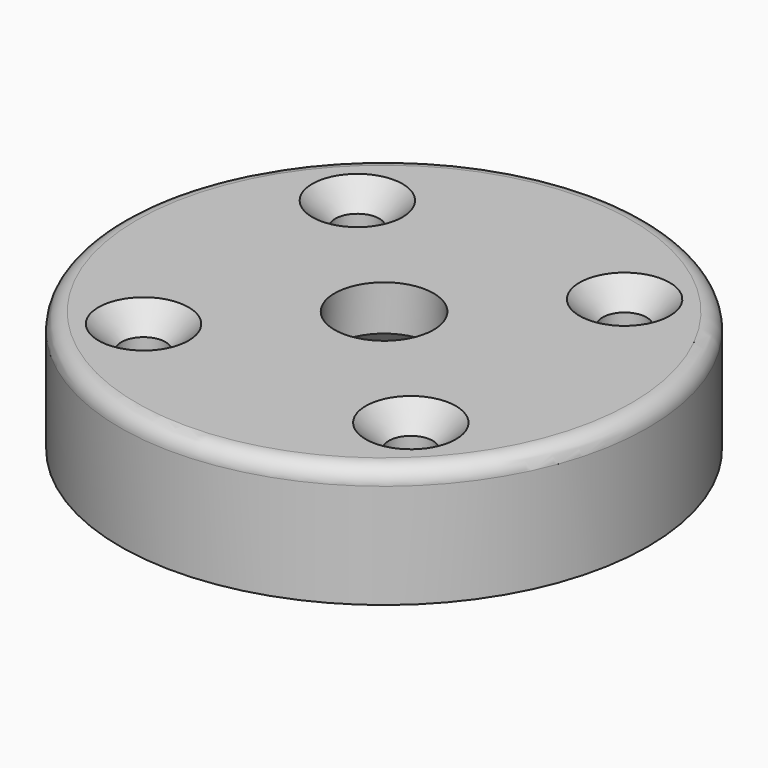
from build123d import *

# Parameters (mm, degrees)
SKETCH_R        = 24
SKETCH_R_2      = 4.5
SKETCH_R_3      = 2
PAD_DEPTH       = 11
CHAMFER_SIZE    = 2.1
FILLET_R        = 1.5
SKETCH001_R     = 8.5
POCKET_DEPTH    = 3
CHAMFER001_SIZE = 3.9


with BuildPart() as part:
    # Sketch → Pad (new body)
    with BuildSketch(Plane.XY):
        Circle(SKETCH_R)
        Circle(SKETCH_R_2, mode=Mode.SUBTRACT)
        with Locations((-12.15, 12.15)):
            Circle(SKETCH_R_3, mode=Mode.SUBTRACT)
        with Locations((12.15, 12.15)):
            Circle(SKETCH_R_3, mode=Mode.SUBTRACT)
        with Locations((12.15, -12.15)):
            Circle(SKETCH_R_3, mode=Mode.SUBTRACT)
        with Locations((-12.15, -12.15)):
            Circle(SKETCH_R_3, mode=Mode.SUBTRACT)
    extrude(amount=PAD_DEPTH)

    # Chamfer
    chamfer_edges = [part.edges().sort_by_distance(p)[0] for p in [
        (-14.15, 12.15, 11),
        (-14.15, -12.15, 11),
        (10.15, 12.15, 11),
        (10.15, -12.15, 11),
    ]]
    chamfer(chamfer_edges, length=CHAMFER_SIZE)

    # Fillet
    fillet_edges = [part.edges().sort_by_distance(p)[0] for p in [
        (-24, 0, 11),
    ]]
    fillet(fillet_edges, radius=FILLET_R)

    # Sketch001 (on Face10 of Fillet) → Pocket (cut)
    with BuildSketch(Plane(origin=(0, 0, 0), x_dir=(1, 0, 0), z_dir=(0, 0, -1))):
        Circle(SKETCH001_R)
    extrude(amount=-POCKET_DEPTH, mode=Mode.SUBTRACT)

    # Chamfer001
    chamfer001_edges = [part.edges().sort_by_distance(p)[0] for p in [
        (-4.5, 0, 3),
    ]]
    chamfer(chamfer001_edges, length=CHAMFER001_SIZE)


solid = part.part
